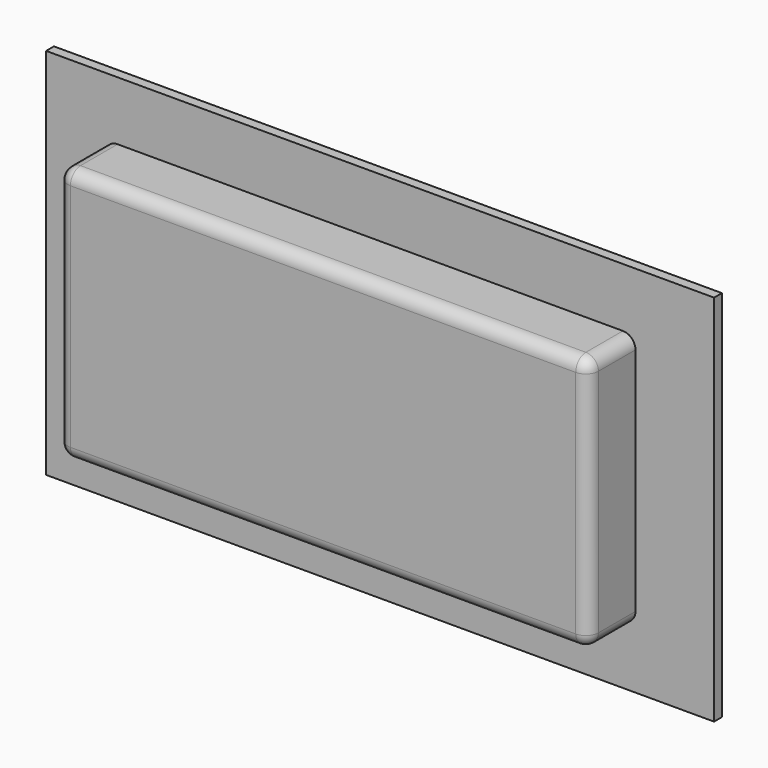
from build123d import *

# Parameters (mm, degrees)
F0_W     = 107.95
F0_H     = 60.325
F0_W_2   = 85.725
F0_H_2   = 41.275
F1_DEPTH = 1.5875
F2_DEPTH = 11.1125
F3_R     = 2.032


with BuildPart() as f1:
    # F0 (on Front) → F1 (new body)
    with BuildSketch(Plane.XZ):
        with Locations((1.5875, 0)):
            Rectangle(F0_W, F0_H)
        Rectangle(F0_W_2, F0_H_2, mode=Mode.SUBTRACT)
        Rectangle(F0_W_2, F0_H_2)
    extrude(amount=F1_DEPTH)

    # F0 (on Front) → F2 (join)
    with BuildSketch(Plane.XZ):
        Rectangle(F0_W_2, F0_H_2)
    extrude(amount=F2_DEPTH)

    # F3
    f3_edges = [f1.edges().sort_by_distance(p)[0] for p in [
        (42.8625, -6.35, 20.6375),
        (-42.8625, -6.35, 20.6375),
        (-42.8625, -6.35, -20.6375),
        (42.8625, -6.35, -20.6375),
        (42.8625, -11.1125, 0),
        (0, -11.1125, -20.6375),
        (-42.8625, -11.1125, 0),
        (0, -11.1125, 20.6375),
    ]]
    fillet(f3_edges, radius=F3_R)


solid = f1.part
